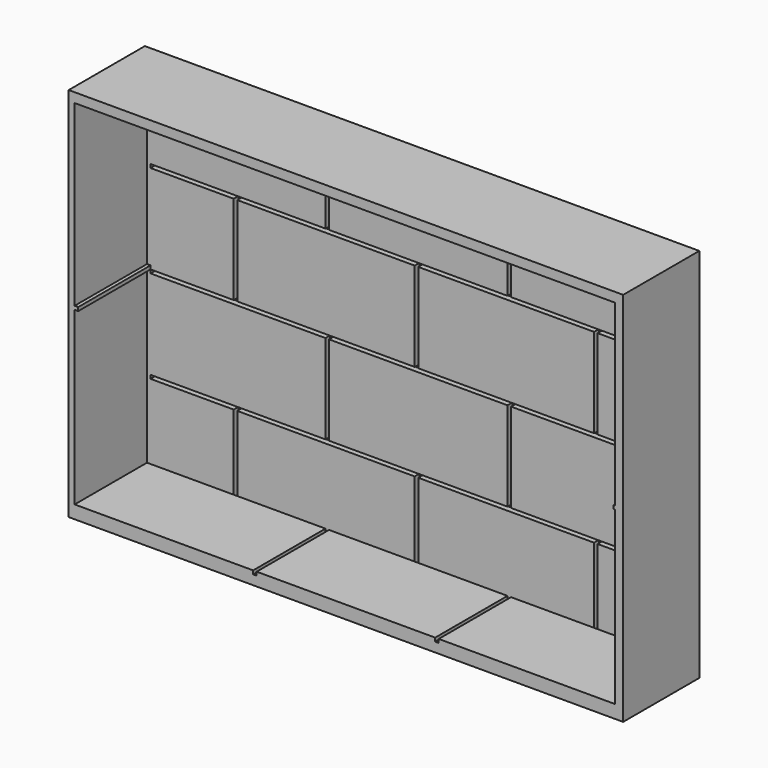
from build123d import *

# Parameters (mm, degrees)
F2_W          = 466
F2_H          = 316
F2_W_2        = 450
F2_H_2        = 300
F3_DEPTH      = 3
F3_DEPTH_BACK = 77
F4_W          = 147
F4_H          = 75
F4_W_2        = 150
F4_W_3        = 69.896846
F4_W_4        = 149.103154
F4_W_5        = 147.778356
F4_W_6        = 74.221644
F4_H_2        = 66
F5_DEPTH      = 5
F6_W          = 147
F6_H          = 76
F6_W_2        = 150
F7_DEPTH      = 3
F8_W          = 76
F8_H          = 150
F8_H_2        = 144
F9_DEPTH      = 3
F10_W         = 76
F10_H         = 150
F10_H_2       = 144
F11_DEPTH     = 1


with BuildPart() as f3:
    # F2 (on offset) → F3 (new body, two sides)
    with BuildSketch(Plane.XZ.offset(78)) as f3_sk:
        with Locations((225, 150)):
            Rectangle(F2_W, F2_H)
        with Locations((225, 150)):
            Rectangle(F2_W_2, F2_H_2, mode=Mode.SUBTRACT)
    extrude(amount=F3_DEPTH)
    extrude(f3_sk.sketch, amount=-F3_DEPTH_BACK)

    # F4 (on Front) → F5 (join)
    with BuildSketch(Plane.XZ):
        with Locations((73.5, 262.5)):
            Rectangle(F4_W, F4_H)
        with Locations((225, 262.5)):
            Rectangle(F4_W_2, F4_H)
        with Locations((376.5, 262.5)):
            Rectangle(F4_W, F4_H)
        with Locations((34.948423, 184.5)):
            Rectangle(F4_W_3, F4_H)
        with Locations((147.448423, 184.5)):
            Rectangle(F4_W_4, F4_H)
        with Locations((298.889178, 184.5)):
            Rectangle(F4_W_5, F4_H)
        with Locations((412.889178, 184.5)):
            Rectangle(F4_W_6, F4_H)
        with Locations((376.5, 106.5)):
            Rectangle(F4_W, F4_H)
        with Locations((225, 106.5)):
            Rectangle(F4_W_2, F4_H)
        with Locations((73.5, 106.5)):
            Rectangle(F4_W, F4_H)
        with Locations((147.448423, 33)):
            Rectangle(F4_W_4, F4_H_2)
        with Locations((34.948423, 33)):
            Rectangle(F4_W_3, F4_H_2)
        with Locations((298.889178, 33)):
            Rectangle(F4_W_5, F4_H_2)
        with Locations((412.889178, 33)):
            Rectangle(F4_W_6, F4_H_2)
    extrude(amount=F5_DEPTH)

    # F6 (on face) → F7 (join)
    with BuildSketch(Plane.XY):
        with Locations((73.5, -43)):
            Rectangle(F6_W, F6_H)
        with Locations((225, -43)):
            Rectangle(F6_W_2, F6_H)
        with Locations((376.5, -43)):
            Rectangle(F6_W, F6_H)
    extrude(amount=F7_DEPTH)

    # F8 (on face) → F9 (cut)
    with BuildSketch(Plane.YZ):
        with Locations((-43, 225)):
            Rectangle(F8_W, F8_H)
        with Locations((-43, 75)):
            Rectangle(F8_W, F8_H_2)
    extrude(amount=-F9_DEPTH, mode=Mode.SUBTRACT)

    # F10 (on face) → F11 (cut)
    with BuildSketch(Plane(origin=(450, 0, 0), x_dir=(0, -1, 0), z_dir=(-1, 0, 0))):
        with Locations((43, 225)):
            Rectangle(F10_W, F10_H)
        with Locations((43, 75)):
            Rectangle(F10_W, F10_H_2)
    extrude(amount=-F11_DEPTH, mode=Mode.SUBTRACT)


solid = f3.part
